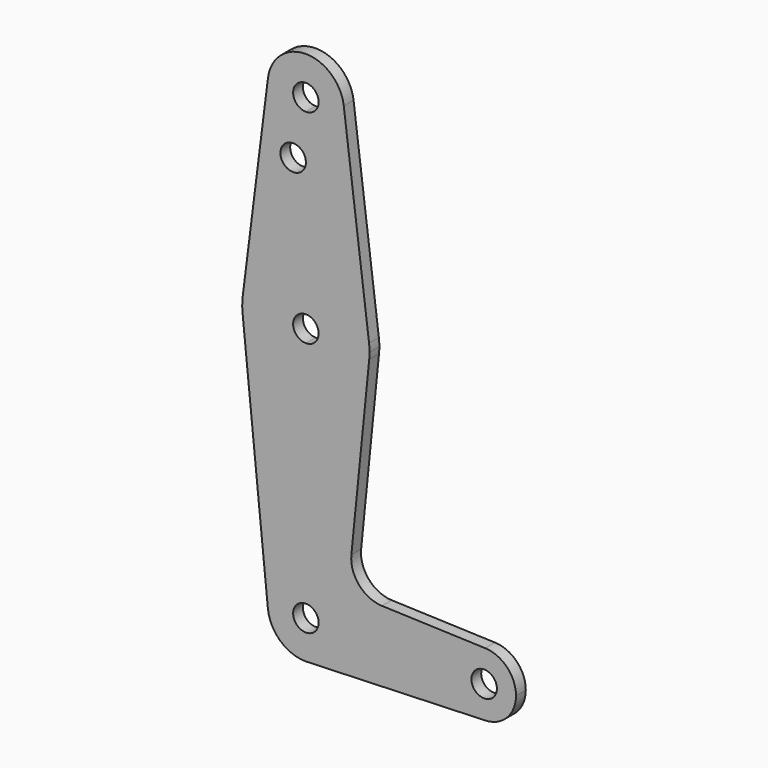
from build123d import *

# Parameters (mm, degrees)
F0_R     = 3.175
F1_DEPTH = 3.048


with BuildPart() as f1:
    # F0 (on Front) → F1 (new body)
    with BuildSketch(Plane.XZ):
        with BuildLine():
            Line((0, 100.0252), (0, 104.775))
            ThreePointArc((0, 104.775), (-7.14375, 107.9998046905), (-9.4502929642, 115.490625))
            Line((-9.4502929642, 115.490625), (-15.7504882737, 65.484375))
            ThreePointArc((-15.7504882737, 65.484375), (-10.5003255158, 75.40625), (0, 79.375))
            Line((0, 79.375), (0, 100.0252))
        make_face()
        with Locations((-3.175, 100.0252)):
            Circle(F0_R, mode=Mode.SUBTRACT)
        with BuildLine():
            ThreePointArc((9.4502929642, 115.490625), (9.5063048942, 114.896483242), (9.525, 114.3))
            ThreePointArc((9.525, 114.3), (6.7351920908, 107.5648079092), (0, 104.775))
            Line((0, 104.775), (0, 100.0252))
            Line((0, 100.0252), (0, 79.375))
            ThreePointArc((0, 79.375), (10.5003255158, 75.40625), (15.7504882737, 65.484375))
            Line((15.7504882737, 65.484375), (9.4502929642, 115.490625))
        make_face()
        with BuildLine():
            Line((11.3408358685, 17.5898921545), (15.7954255641, 61.9125))
            ThreePointArc((15.7954255641, 61.9125), (10.6492737428, 51.7267849017), (0, 47.625))
            Line((0, 47.625), (0, 9.525))
            ThreePointArc((0, 9.525), (0.3388863295, 9.5189695375), (0.6773435479, 9.500885786))
            ThreePointArc((0.6773435479, 9.500885786), (6.9705567315, 6.4912990883), (9.525, 0))
            Line((9.525, 0), (36.5125, 0))
            ThreePointArc((36.5125, 0), (38.9380895153, 5.7116327839), (44.7324052746, 7.9324746146))
            Line((44.7324052746, 7.9324746146), (18.968327868, 8.8497055806))
            ThreePointArc((18.968327868, 8.8497055806), (13.2612039825, 11.5674628959), (11.3408358685, 17.5898921545))
        make_face()
        with BuildLine():
            ThreePointArc((0, 47.625), (-10.6492737428, 51.7267849017), (-15.7954255641, 61.9125))
            Line((-15.7954255641, 61.9125), (-9.4772553384, -0.9525))
            ThreePointArc((-9.4772553384, -0.9525), (-7.063929059, 6.3895642457), (0, 9.525))
            Line((0, 9.525), (0, 47.625))
        make_face()
        with BuildLine():
            ThreePointArc((15.875, 63.5), (15.8438414904, 64.4941387366), (15.7504882737, 65.484375))
            ThreePointArc((15.7504882737, 65.484375), (10.5003255158, 75.40625), (0, 79.375))
            Line((0, 79.375), (0, 66.675))
            ThreePointArc((0, 66.675), (2.2450640303, 65.7450640303), (3.175, 63.5))
            ThreePointArc((3.175, 63.5), (2.2450640303, 61.2549359697), (0, 60.325))
            Line((0, 60.325), (0, 47.625))
            ThreePointArc((0, 47.625), (10.6492737428, 51.7267849017), (15.7954255641, 61.9125))
            ThreePointArc((15.7954255641, 61.9125), (15.8550939106, 62.7052534459), (15.875, 63.5))
        make_face()
        with BuildLine():
            ThreePointArc((0, 79.375), (-10.5003255158, 75.40625), (-15.7504882737, 65.484375))
            ThreePointArc((-15.7504882737, 65.484375), (-15.8737438155, 63.6997054867), (-15.7954255641, 61.9125))
            ThreePointArc((-15.7954255641, 61.9125), (-10.6492737428, 51.7267849017), (0, 47.625))
            Line((0, 47.625), (0, 60.325))
            ThreePointArc((0, 60.325), (-3.175, 63.5), (0, 66.675))
            Line((0, 66.675), (0, 79.375))
        make_face()
        with BuildLine():
            ThreePointArc((0, 104.775), (6.7351920908, 107.5648079092), (9.525, 114.3))
            ThreePointArc((9.525, 114.3), (9.5063048942, 114.896483242), (9.4502929642, 115.490625))
            ThreePointArc((9.4502929642, 115.490625), (0, 123.825), (-9.4502929642, 115.490625))
            ThreePointArc((-9.4502929642, 115.490625), (-7.14375, 107.9998046905), (0, 104.775))
        make_face()
        with BuildLine():
            ThreePointArc((3.175, 114.3), (2.2450640303, 112.0549359697), (0, 111.125))
            ThreePointArc((0, 111.125), (-2.2450640303, 116.5450640303), (3.175, 114.3))
        make_face(mode=Mode.SUBTRACT)
        with BuildLine():
            ThreePointArc((0, 9.525), (-7.063929059, 6.3895642457), (-9.4772553384, -0.9525))
            ThreePointArc((-9.4772553384, -0.9525), (-6.3895642457, -7.063929059), (0, -9.525))
            Line((0, -9.525), (0.6773435479, -9.500885786))
            ThreePointArc((0.6773435479, -9.500885786), (6.9705567315, -6.4912990883), (9.525, 0))
            Line((9.525, 0), (3.175, 0))
            ThreePointArc((3.175, 0), (-2.2450640303, -2.2450640303), (0, 3.175))
            Line((0, 3.175), (0, 9.525))
        make_face()
        with BuildLine():
            Line((0.6773435479, 9.500885786), (0, 9.525))
            Line((0, 9.525), (0, 3.175))
            ThreePointArc((0, 3.175), (2.2450640303, 2.2450640303), (3.175, 0))
            Line((3.175, 0), (9.525, 0))
            ThreePointArc((9.525, 0), (6.9705567315, 6.4912990883), (0.6773435479, 9.500885786))
        make_face()
        with BuildLine():
            ThreePointArc((9.525, 0), (6.9705567315, -6.4912990883), (0.6773435479, -9.500885786))
            Line((0.6773435479, -9.500885786), (44.7324052746, -7.9324746146))
            ThreePointArc((44.7324052746, -7.9324746146), (38.9380895153, -5.7116327839), (36.5125, 0))
            Line((36.5125, 0), (9.525, 0))
        make_face()
        with BuildLine():
            ThreePointArc((52.3875, 0), (50.1616327839, 5.5119104847), (44.7324052746, 7.9324746146))
            ThreePointArc((44.7324052746, 7.9324746146), (38.9380895153, 5.7116327839), (36.5125, 0))
            ThreePointArc((36.5125, 0), (38.9380895153, -5.7116327839), (44.7324052746, -7.9324746146))
            ThreePointArc((44.7324052746, -7.9324746146), (50.1616327839, -5.5119104847), (52.3875, 0))
        make_face()
        with BuildLine():
            ThreePointArc((47.625, 0), (44.45, -3.175), (41.275, 0))
            ThreePointArc((41.275, 0), (44.45, 3.175), (47.625, 0))
        make_face(mode=Mode.SUBTRACT)
    extrude(amount=F1_DEPTH)


solid = f1.part
